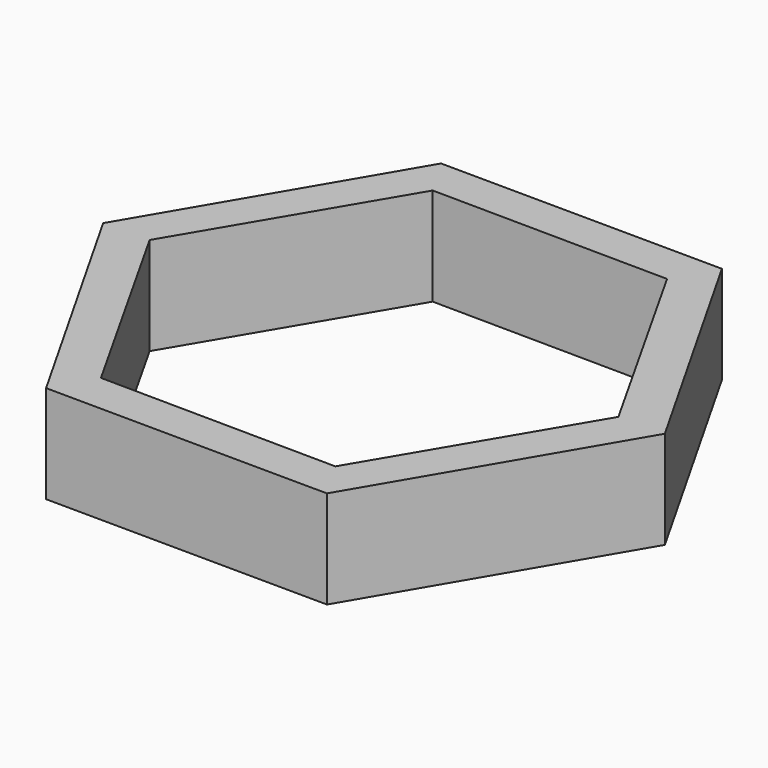
from build123d import *

# Parameters (mm, degrees)
F1_DEPTH = 3.048
F3_DEPTH = 88.646


with BuildPart() as f1:
    # F0 (on Top) → F1 (new body)
    with BuildSketch(Plane.XY):
        Polygon((4.34401, -7.651717), (8.798587, -0.063836), (4.454577, 7.587881), (-4.34401, 7.651717), (-8.798587, 0.063836), (-4.454577, -7.587881), align=None)
    extrude(amount=F1_DEPTH)

    # F2 (on face) → F3 (cut)
    with BuildSketch(Plane.XY.offset(3.048)):
        Polygon((7.360816, -0.076723), (3.746852, 6.336292), (-3.613964, 6.413015), (-7.360816, 0.076723), (-3.746852, -6.336292), (3.613964, -6.413015), align=None)
    extrude(amount=-F3_DEPTH, mode=Mode.SUBTRACT)


solid = f1.part
